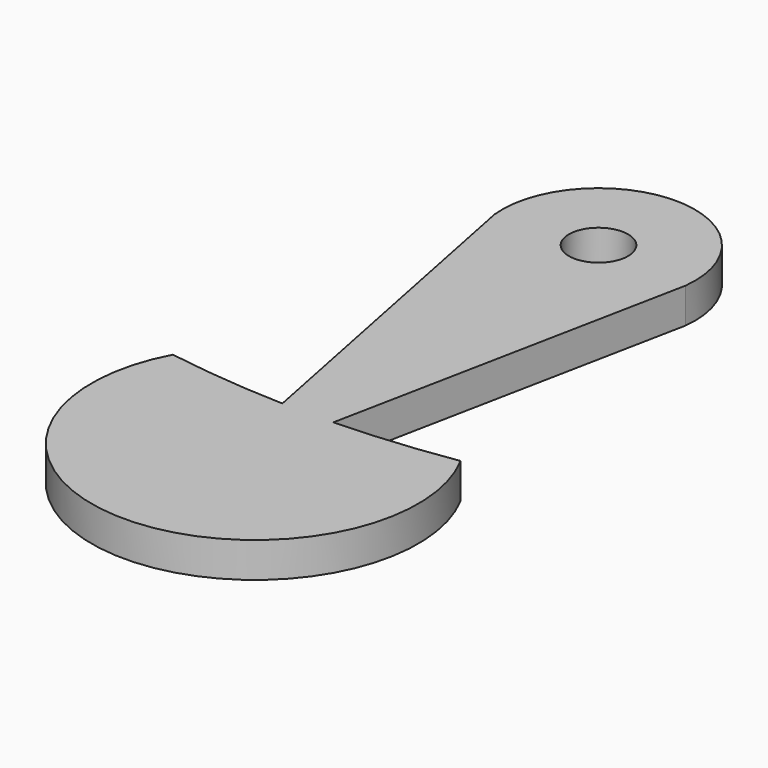
from build123d import *

# Parameters (mm, degrees)
F0_R     = 1.849397
F1_DEPTH = 2.2


with BuildPart() as f1:
    # F0 (on Top) → F1 (new body)
    with BuildSketch(Plane.XY):
        with BuildLine():
            ThreePointArc((-43.155712, 41.621163), (-49.121705, 48.332393), (-55.155712, 41.682247))
            Line((-55.155712, 41.682247), (-50.748931, 19.573376))
            ThreePointArc((-50.748931, 19.573376), (-49.15236, 19.55101), (-47.555789, 19.573379))
            Line((-47.555789, 19.573379), (-43.155712, 41.621163))
        make_face()
        with Locations((-49.152423, 42.297715)):
            Circle(F0_R, mode=Mode.SUBTRACT)
        with BuildLine():
            ThreePointArc((-47.555789, 19.573379), (-49.15236, 19.55101), (-50.748931, 19.573376))
            ThreePointArc((-50.748931, 19.573376), (-54.461987, 19.798882), (-58.152423, 20.266136))
            ThreePointArc((-58.152423, 20.266136), (-49.152423, 5.217745), (-40.152423, 20.266136))
            ThreePointArc((-40.152423, 20.266136), (-43.842796, 19.798888), (-47.555789, 19.573379))
        make_face()
    extrude(amount=F1_DEPTH)


solid = f1.part
